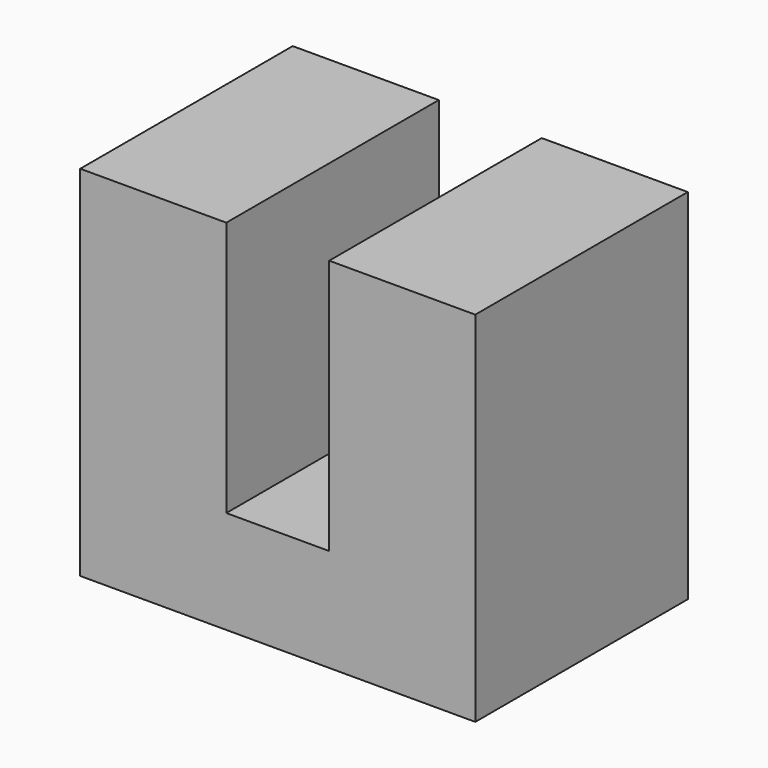
from build123d import *

# Parameters (mm, degrees)
PAD_DEPTH = 8


with BuildPart() as part:
    # Sketch → Pad (new body)
    with BuildSketch(Plane.XZ):
        Polygon((0, 0), (0, 10.8), (4.4, 10.8), (4.4, 3.1), (7.5, 3.1), (7.5, 10.8), (11.9, 10.8), (11.9, 0), align=None)
    extrude(amount=PAD_DEPTH)


solid = part.part
